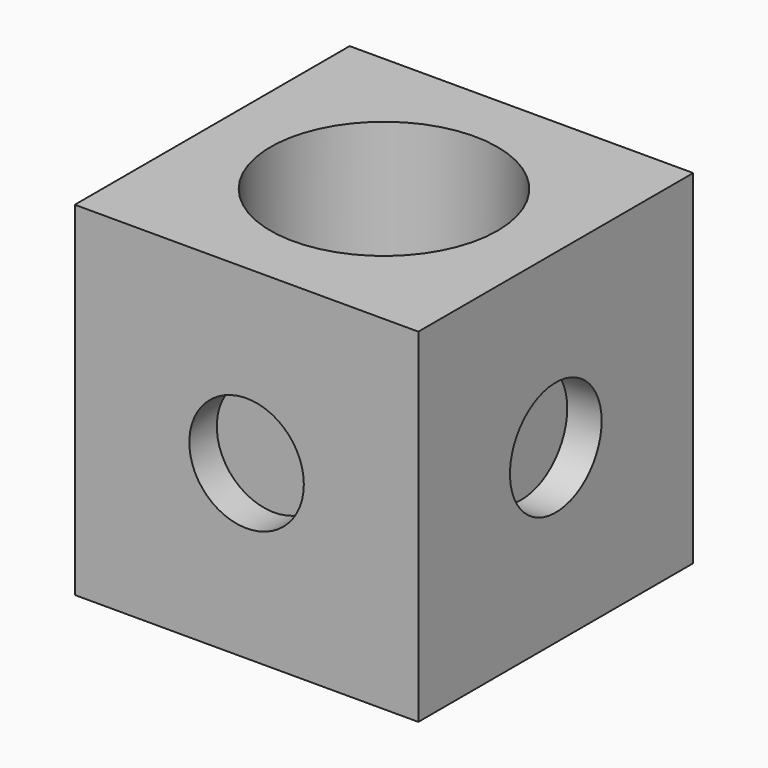
from build123d import *

# Parameters (mm, degrees)
F0_W     = 15
F0_H     = 15
F0_R     = 4.955
F1_DEPTH = 7.5
F2_R     = 2.5
F3_DEPTH = 1.5
F4_R     = 2.5
F5_DEPTH = 1.5
F6_R     = 2.5
F7_DEPTH = 1.5
F8_R     = 2.5
F9_DEPTH = 1.5


with BuildPart() as f1:
    # F0 (on Top) → F1 (new body, symmetric)
    with BuildSketch(Plane.XY):
        Rectangle(F0_W, F0_H)
        Circle(F0_R, mode=Mode.SUBTRACT)
    extrude(amount=F1_DEPTH, both=True)

    # F2 (on face) → F3 (join)
    with BuildSketch(Plane(origin=(0, 7.5, 0), x_dir=(-1, 0, 0), z_dir=(0, 1, 0))):
        Circle(F2_R)
    extrude(amount=F3_DEPTH)

    # F4 (on face) → F5 (cut)
    with BuildSketch(Plane.XZ.offset(7.5)):
        Circle(F4_R)
    extrude(amount=-F5_DEPTH, mode=Mode.SUBTRACT)

    # F6 (on face) → F7 (cut)
    with BuildSketch(Plane.YZ.offset(7.5)):
        Circle(F6_R)
    extrude(amount=-F7_DEPTH, mode=Mode.SUBTRACT)

    # F8 (on face) → F9 (cut)
    with BuildSketch(Plane(origin=(-7.5, 0, 0), x_dir=(0, -1, 0), z_dir=(-1, 0, 0))):
        Circle(F8_R)
    extrude(amount=-F9_DEPTH, mode=Mode.SUBTRACT)


solid = f1.part
